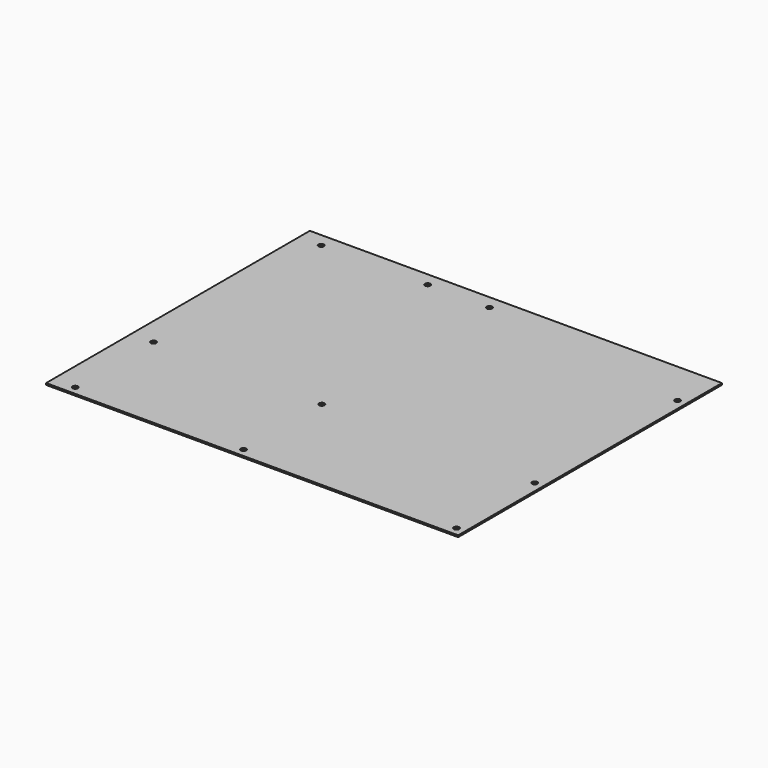
from build123d import *

# Parameters (mm, degrees)
F0_W     = 304.8
F0_H     = 243.84
F0_R     = 1.9812
F1_DEPTH = 1.27


with BuildPart() as f1:
    # F0 (on Top) → F1 (new body)
    with BuildSketch(Plane.XY):
        with Locations((11.43, 43.18)):
            Rectangle(F0_W, F0_H)
        with Locations((-124.46, -72.39)):
            Circle(F0_R, mode=Mode.SUBTRACT)
        with Locations((0, -72.39)):
            Circle(F0_R, mode=Mode.SUBTRACT)
        with Locations((-124.46, 0)):
            Circle(F0_R, mode=Mode.SUBTRACT)
        Circle(F0_R, mode=Mode.SUBTRACT)
        with Locations((157.48, -72.39)):
            Circle(F0_R, mode=Mode.SUBTRACT)
        with Locations((157.48, 0)):
            Circle(F0_R, mode=Mode.SUBTRACT)
        with Locations((-124.46, 154.94)):
            Circle(F0_R, mode=Mode.SUBTRACT)
        with Locations((-45.72, 154.94)):
            Circle(F0_R, mode=Mode.SUBTRACT)
        with Locations((0, 154.94)):
            Circle(F0_R, mode=Mode.SUBTRACT)
        with Locations((157.48, 132.08)):
            Circle(F0_R, mode=Mode.SUBTRACT)
    extrude(amount=F1_DEPTH)


solid = f1.part
